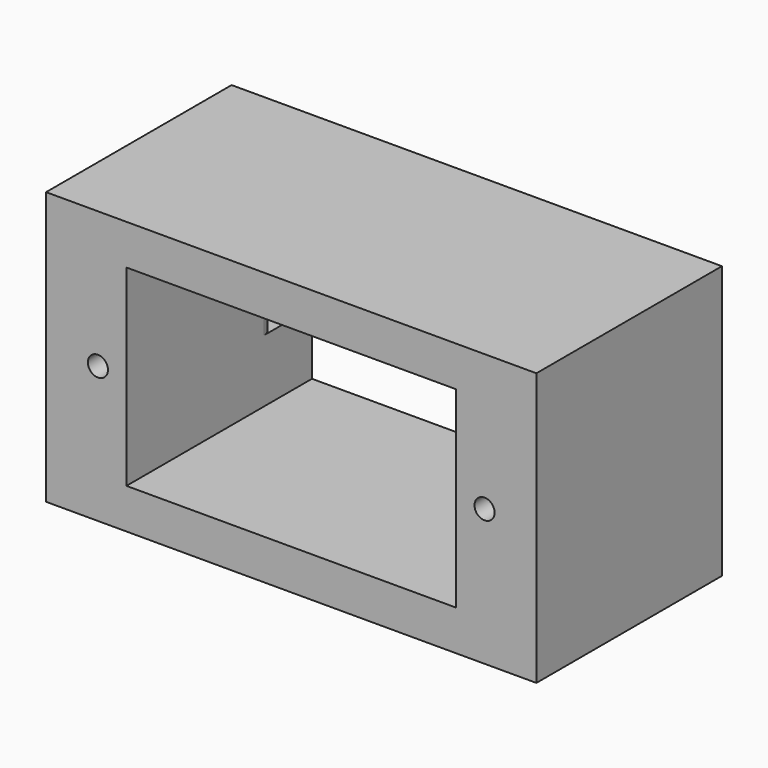
from build123d import *

# Parameters (mm, degrees)
SKETCH046_W             = 36.6
SKETCH046_H             = 20.35
SKETCH046_W_2           = 24.6
SKETCH046_H_2           = 14.35
PAD024_DEPTH            = 17.31
SKETCH048_R             = 0.75
POCKET018_DEPTH         = 10
SKETCH047_W             = 3
SKETCH047_H             = 5
POCKET017_DEPTH         = 3.5
FILLET026_R             = 1
FILLET024_R             = 1
FILLET028_R             = 1
FILLET027_R             = 1
BODY012_PLACEMENT_ANGLE = 180


with BuildPart() as part:
    # Sketch046 (on Face1 of ReferencePocket007) → Pad024 (new body)
    with BuildSketch(Plane.XZ):
        with Locations((11.3, 6.175)):
            Rectangle(SKETCH046_W, SKETCH046_H)
        with Locations((11.3, 6.175)):
            Rectangle(SKETCH046_W_2, SKETCH046_H_2, mode=Mode.SUBTRACT)
    extrude(amount=-PAD024_DEPTH)

    # Sketch048 (on Face10 of Pad025) → Pocket018 (cut)
    with BuildSketch(Plane(origin=(0, 19.97, 0), x_dir=(-1, 0, 0), z_dir=(0, 1, 0))):
        with Locations((-25.73, 6.175)):
            Circle(SKETCH048_R)
        with Locations((3.13, 6.175)):
            Circle(SKETCH048_R)
    extrude(amount=-POCKET018_DEPTH, mode=Mode.SUBTRACT)

    # Sketch047 (on Face4 of Pocket018) → Pocket017 (cut)
    with BuildSketch(Plane.XZ):
        with Locations((-2.5, 6.175)):
            Rectangle(SKETCH047_W, SKETCH047_H)
        with Locations((25.1, 6.175)):
            Rectangle(SKETCH047_W, SKETCH047_H)
    extrude(amount=-POCKET017_DEPTH, mode=Mode.SUBTRACT)

    # Fillet026
    fillet026_edges = [part.edges().sort_by_distance(p)[0] for p in [
        (26.6, 0, 6.175),
    ]]
    fillet(fillet026_edges, radius=FILLET026_R)

    # Fillet024
    fillet024_edges = [part.edges().sort_by_distance(p)[0] for p in [
        (23.6, 3.5, 6.175),
    ]]
    fillet(fillet024_edges, radius=FILLET024_R)

    # Fillet028
    fillet028_edges = [part.edges().sort_by_distance(p)[0] for p in [
        (-1, 3.5, 6.175),
    ]]
    fillet(fillet028_edges, radius=FILLET028_R)

    # Fillet027
    fillet027_edges = [part.edges().sort_by_distance(p)[0] for p in [
        (-4, 0, 6.175),
    ]]
    fillet(fillet027_edges, radius=FILLET027_R)


with BuildPart() as part_1:
    # Body012 placement: moved
    add(part.part.moved(Location((20.600001, 8.309999, -25.780001))).rotate(Axis((20.600001, 8.309999, -25.780001), (0, 0, 1)), BODY012_PLACEMENT_ANGLE))


solid = part_1.part
